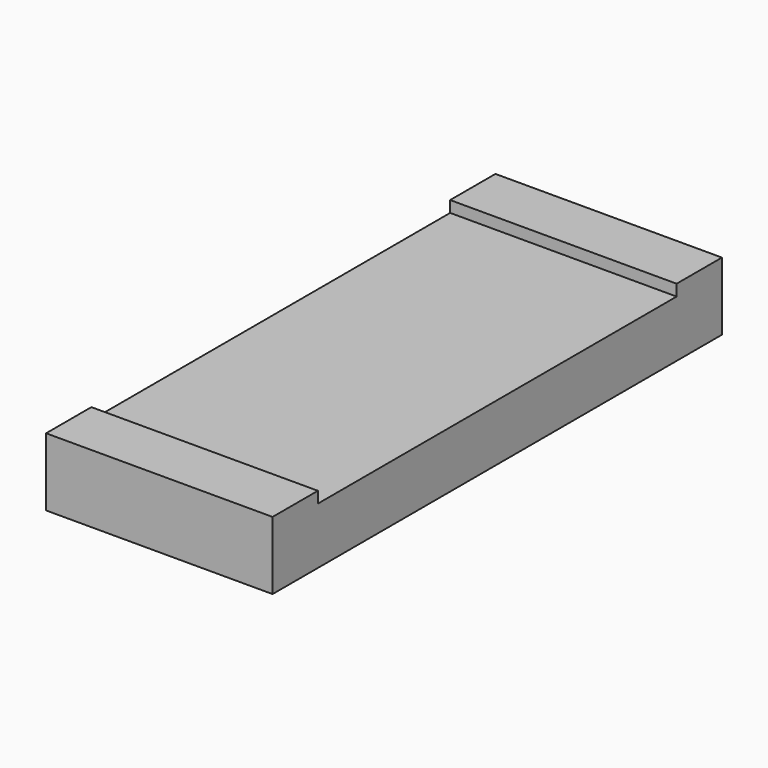
from build123d import *

# Parameters (mm, degrees)
F0_R     = 1.5
F1_DEPTH = 5
F2_W     = 39.6
F2_H     = 20
F3_DEPTH = 5
F2_W_2   = 5
F4_DEPTH = 6
F5_ANGLE = 90


with BuildPart() as f1:
    # F0 (on Top) → F1 (new body)
    with BuildSketch(Plane.XY):
        Circle(F0_R)
    extrude(amount=-F1_DEPTH)

    # F2 (on Top) → F3 (join)
    with BuildSketch(Plane.XY):
        Rectangle(F2_W, F2_H)
    extrude(amount=F3_DEPTH)

    # F2 (on Top) → F4 (join)
    with BuildSketch(Plane.XY):
        with Locations((-22.3, 0)):
            Rectangle(F2_W_2, F2_H)
        with Locations((22.3, 0)):
            Rectangle(F2_W_2, F2_H)
    extrude(amount=F4_DEPTH)


with BuildPart() as f1_1:
    # F5: moved
    add(f1.part.rotate(Axis((0, 0, -5), (0, 0, 1)), F5_ANGLE))


solid = f1_1.part
